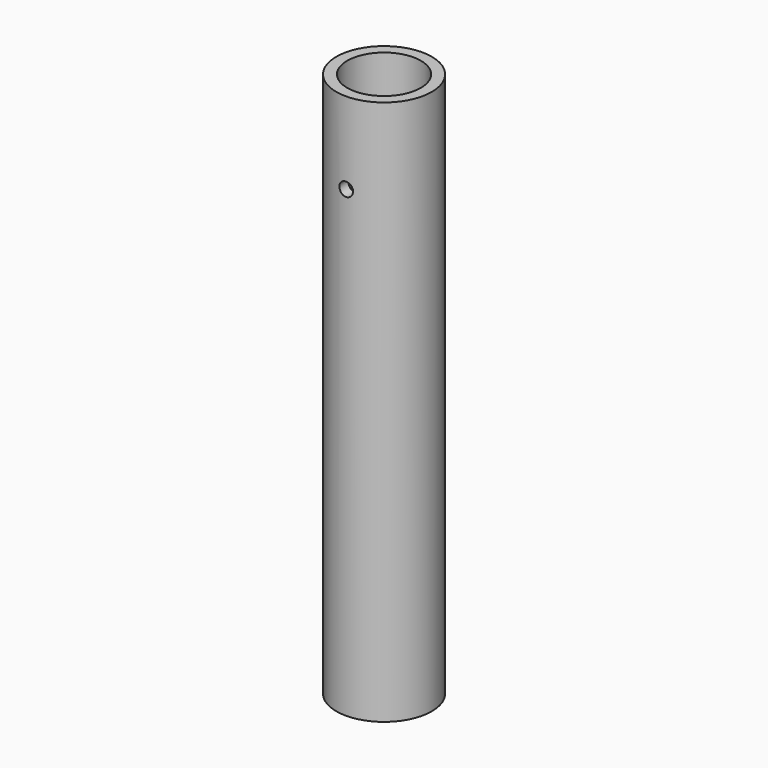
from build123d import *

# Parameters (mm, degrees)
F0_R          = 17.5
F1_DEPTH      = 200
F2_R          = 2.5
F3_DEPTH      = 25
F3_DEPTH_BACK = 25
F4_R          = 13.5
F5_DEPTH      = 1022


with BuildPart() as f1:
    # F0 (on Top) → F1 (new body)
    with BuildSketch(Plane.XY):
        Circle(F0_R)
    extrude(amount=F1_DEPTH)

    # F2 (on Front) → F3 (cut, two sides)
    with BuildSketch(Plane.XZ) as f3_sk:
        with Locations((0, 170)):
            Circle(F2_R)
    extrude(amount=-F3_DEPTH, mode=Mode.SUBTRACT)
    extrude(f3_sk.sketch, amount=F3_DEPTH_BACK, mode=Mode.SUBTRACT)

    # F4 (on face) → F5 (cut)
    with BuildSketch(Plane.XY.offset(200)):
        Circle(F4_R)
    extrude(amount=-F5_DEPTH, mode=Mode.SUBTRACT)


solid = f1.part
